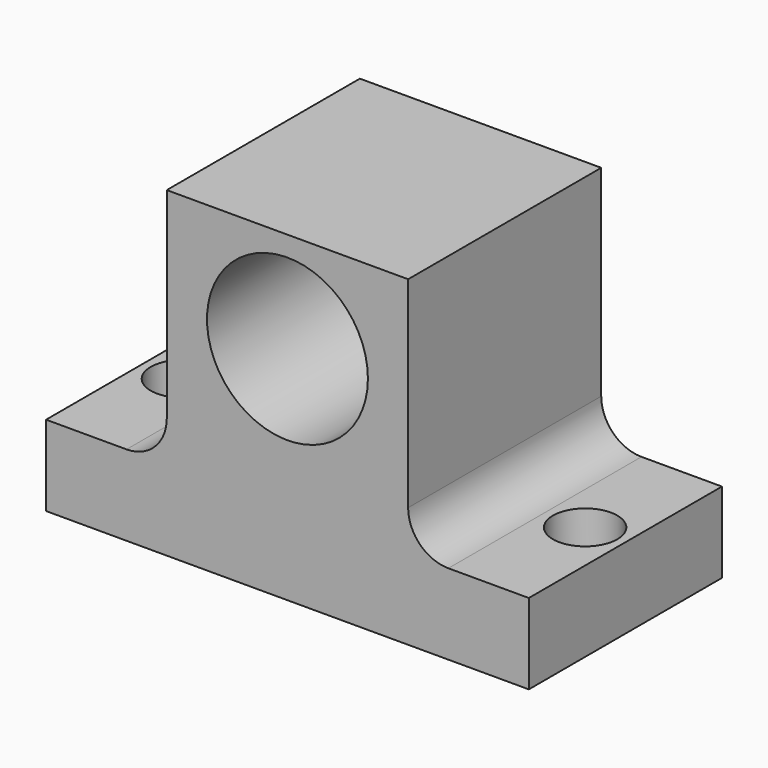
from build123d import *

# Parameters (mm, degrees)
F0_W      = 30
F0_H      = 15
F1_DEPTH  = 20
F2_W      = 7.5
F2_H      = 15
F3_DEPTH  = 15.001
F4_R      = 2.5
F5_R      = 5
F6_DEPTH  = 15.001
F7_R      = 2
F8_DEPTH  = 5.001
F9_R      = 2
F10_DEPTH = 5.001


with BuildPart() as f1:
    # F0 (on Top) → F1 (new body)
    with BuildSketch(Plane.XY):
        with Locations((-4.818223, -3.192319)):
            Rectangle(F0_W, F0_H)
    extrude(amount=F1_DEPTH)

    # F2 (on face) → F3 (cut, through all)
    with BuildSketch(Plane.XZ.offset(10.692319)):
        with Locations((-16.068223, 12.5)):
            Rectangle(F2_W, F2_H)
        with Locations((6.431777, 12.5)):
            Rectangle(F2_W, F2_H)
    extrude(amount=-F3_DEPTH, mode=Mode.SUBTRACT)

    # F4
    f4_edges = [f1.edges().sort_by_distance(p)[0] for p in [
        (2.681777, -3.192319, 5),
        (-12.318223, -3.192319, 5),
    ]]
    fillet(f4_edges, radius=F4_R)

    # F5 (on face) → F6 (cut, through all)
    with BuildSketch(Plane.XZ.offset(10.692319)):
        with Locations((-4.818223, 13.75)):
            Circle(F5_R)
    extrude(amount=-F6_DEPTH, mode=Mode.SUBTRACT)

    # F7 (on face) → F8 (cut, through all)
    with BuildSketch(Plane.XY.offset(5)):
        with Locations((7.681777, -3.192319)):
            Circle(F7_R)
    extrude(amount=-F8_DEPTH, mode=Mode.SUBTRACT)

    # F9 (on face) → F10 (cut, through all)
    with BuildSketch(Plane.XY.offset(5)):
        with Locations((-17.318223, -3.192319)):
            Circle(F9_R)
    extrude(amount=-F10_DEPTH, mode=Mode.SUBTRACT)


solid = f1.part
